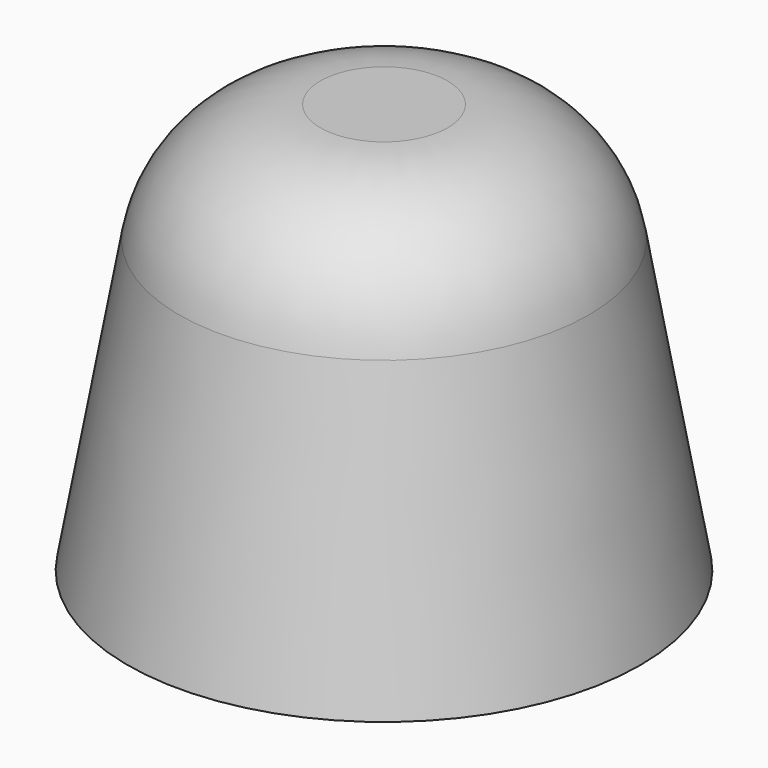
from build123d import *

# Parameters (mm, degrees)
F0_R     = 12.5
F1_DEPTH = 20
F1_TAPER = 10
F2_R     = 7
F3_T     = -1.5


with BuildPart() as f1:
    # F0 (on Top) → F1 (new body)
    with BuildSketch(Plane.XY):
        Circle(F0_R)
    extrude(amount=F1_DEPTH, taper=F1_TAPER)

    # F2
    f2_edges = [f1.edges().sort_by_distance(p)[0] for p in [
        (-8.97346, 0, 20),
    ]]
    fillet(f2_edges, radius=F2_R)

    # F3
    f3_openings = [f1.faces().sort_by_distance(p)[0] for p in [
        (0, 0, 0),
    ]]
    offset(amount=F3_T, openings=f3_openings)


solid = f1.part
